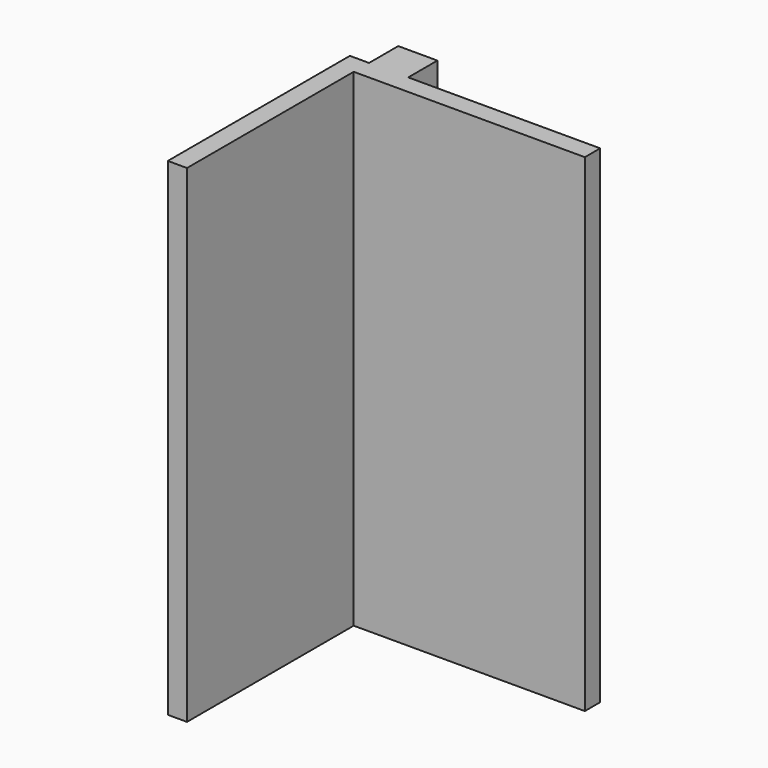
from build123d import *

# Parameters (mm, degrees)
F0_W     = 5
F0_H     = 43
F0_W_2   = 10.2
F0_H_2   = 5
F0_H_3   = 9.5
F0_W_3   = 50
F1_DEPTH = 127


with BuildPart() as f1:
    # F0 (on Top) → F1 (new body)
    with BuildSketch(Plane.XY):
        with Locations((2.5, 21.5)):
            Rectangle(F0_W, F0_H)
        Polygon((0, 59.27), (0, 43), (5, 43), (5, 54.27), (5, 59.27), align=None)
        with Locations((10.1, 56.77)):
            Rectangle(F0_W_2, F0_H_2)
        with Locations((10.1, 64.02)):
            Rectangle(F0_W_2, F0_H_3)
        with Locations((40.2, 56.77)):
            Rectangle(F0_W_3, F0_H_2)
    extrude(amount=F1_DEPTH)


solid = f1.part
